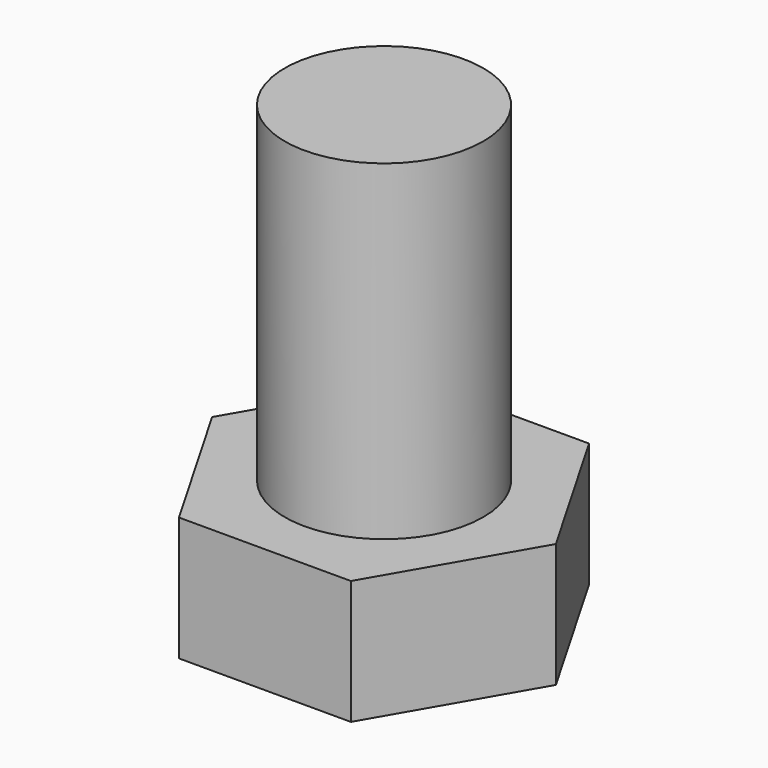
from build123d import *

# Parameters (mm, degrees)
F0_R     = 12
F1_DEPTH = 40
F3_DEPTH = 15


with BuildPart() as f1:
    # F0 (on Top) → F1 (new body)
    with BuildSketch(Plane.XY):
        Circle(F0_R)
    extrude(amount=F1_DEPTH)

    # F2 (on Top) → F3 (join)
    with BuildSketch(Plane.XY):
        Polygon((20.78461, 0), (10.392305, 18), (-10.392305, 18), (-20.78461, 0), (-10.392305, -18), (10.392305, -18), align=None)
    extrude(amount=-F3_DEPTH)


solid = f1.part
